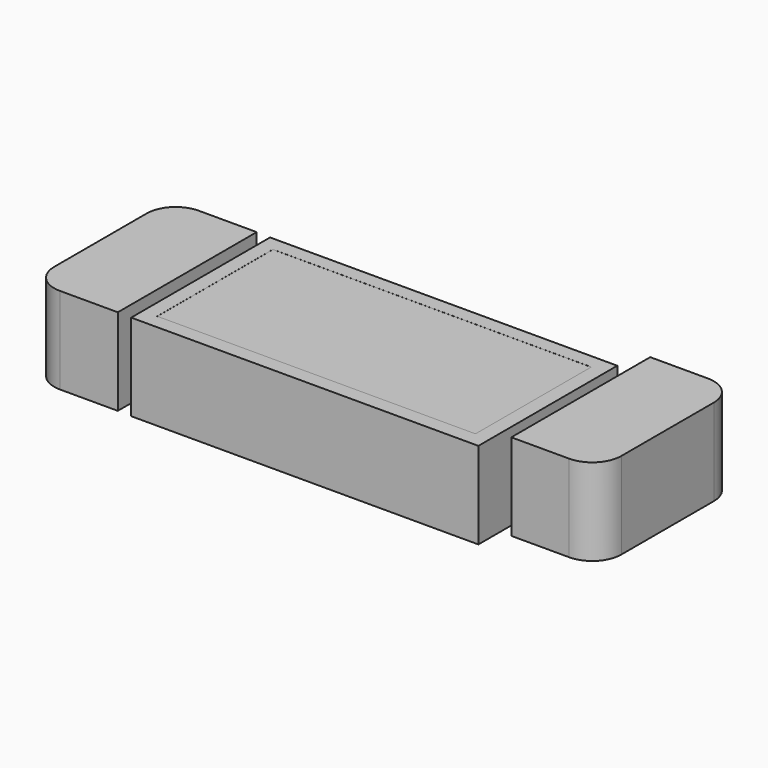
from build123d import *

# Parameters (mm, degrees)
F0_W     = 152.4
F0_H     = 76.2
F1_DEPTH = 38.1
F4_DEPTH = 38.1
F5_W     = 139.7
F5_H     = 63.5
F6_DEPTH = 0.0254


with BuildPart() as f1:
    # F0 (on Top) → F1 (new body)
    with BuildSketch(Plane.XY):
        with Locations((-55.615083, 26.086186)):
            Rectangle(F0_W, F0_H)
    extrude(amount=F1_DEPTH)

    # F5 (on face) → F6 (cut)
    with BuildSketch(Plane.XY.offset(38.1)):
        with Locations((-55.615083, 26.086186)):
            Rectangle(F5_W, F5_H)
    extrude(amount=-F6_DEPTH, mode=Mode.SUBTRACT)


with BuildPart() as f4:
    # F3 (on Top) + F2 (on Top) → F4 (new body)
    with BuildSketch(Plane.XY):
        with BuildLine():
            Line((-137.868449, 64.414455), (-163.268449, 64.414455))
            ThreePointArc((-163.268449, 64.414455), (-172.248705, 60.694711), (-175.968449, 51.714455))
            Line((-175.968449, 51.714455), (-175.968449, 0.914455))
            ThreePointArc((-175.968449, 0.914455), (-172.248705, -8.065802), (-163.268449, -11.785545))
            Line((-163.268449, -11.785545), (-137.868449, -11.785545))
            Line((-137.868449, -11.785545), (-137.868449, 64.414455))
        make_face()
    with BuildSketch(Plane.XY):
        with BuildLine():
            Line((50.824707, 76.2), (25.424707, 76.2))
            Line((25.424707, 76.2), (25.424707, 0))
            Line((25.424707, 0), (50.824707, 0))
            ThreePointArc((50.824707, 0), (59.804963, 3.719744), (63.524707, 12.7))
            Line((63.524707, 12.7), (63.524707, 63.5))
            ThreePointArc((63.524707, 63.5), (59.804963, 72.480256), (50.824707, 76.2))
        make_face()
    extrude(amount=F4_DEPTH)


solid = Compound([f1.part, f4.part])
